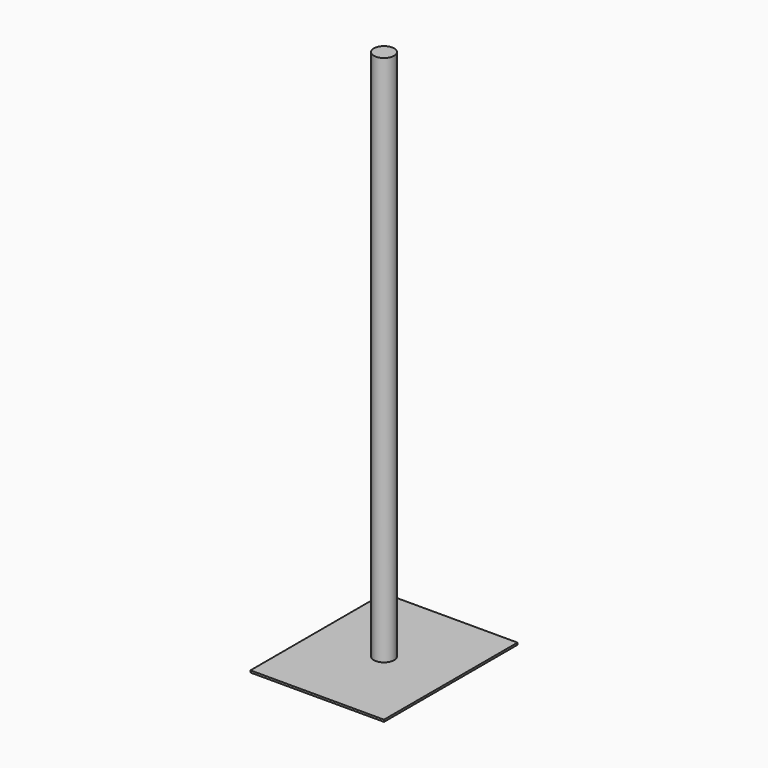
from build123d import *

# Parameters (mm, degrees)
F0_W     = 400
F0_H     = 500
F1_DEPTH = 6
F2_R     = 30.25
F3_DEPTH = 1600


with BuildPart() as f1:
    # F0 (on Top) → F1 (new body)
    with BuildSketch(Plane.XY):
        Rectangle(F0_W, F0_H)
    extrude(amount=F1_DEPTH)

    # F2 (on Top) → F3 (join)
    with BuildSketch(Plane.XY):
        Circle(F2_R)
    extrude(amount=F3_DEPTH)


solid = f1.part
